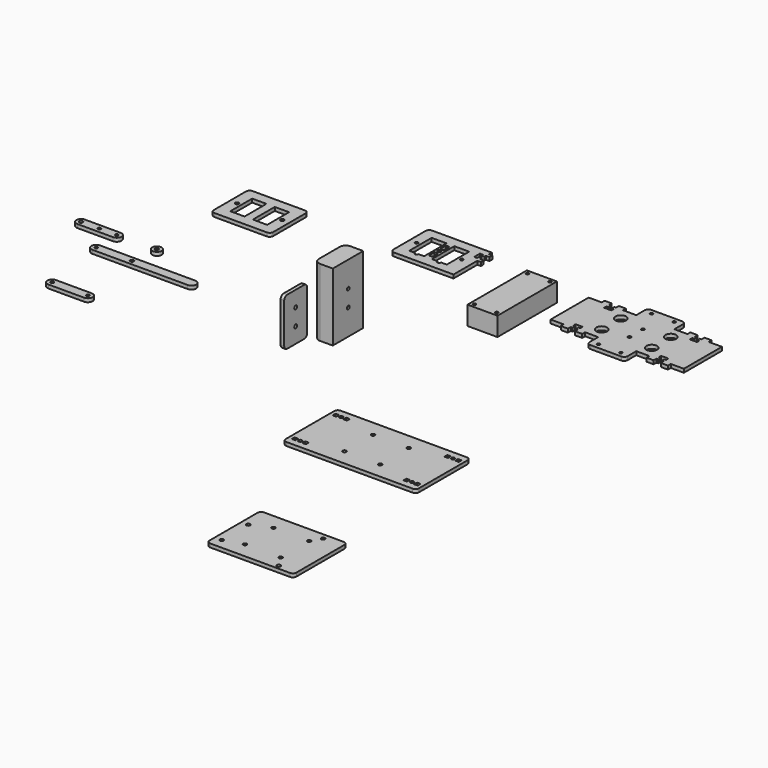
from build123d import *

# Parameters (mm, degrees)
F0_R      = 4
F0_R_2    = 1.5
F1_DEPTH  = 3
F2_R      = 1.5
F2_R_2    = 1.25
F3_DEPTH  = 3
F4_R      = 1.3
F4_R_2    = 1.5
F5_DEPTH  = 3
F6_R      = 1.3
F7_DEPTH  = 3
F8_R      = 1.5
F8_W      = 12
F8_H      = 23
F9_DEPTH  = 3
F11_DEPTH = 57
F12_R     = 1.4
F13_DEPTH = 5
F14_W     = 25.2
F14_H     = 62.4
F14_R     = 1.2
F15_DEPTH = 15.8
F16_R     = 1.3
F16_W     = 3
F16_H     = 6
F16_R_2   = 1.5
F17_DEPTH = 3
F18_R     = 1.2
F18_R_2   = 4.5
F18_R_3   = 1.3
F19_DEPTH = 3
F21_R     = 1.5
F22_DEPTH = 3
F23_W     = 22
F23_H     = 50
F24_DEPTH = 14
F25_W     = 3
F25_H     = 3
F25_R     = 1.5
F26_DEPTH = 3
F27_R     = 1.5875
F27_R_2   = 1.5
F28_DEPTH = 3


with BuildPart() as f1:
    # F0 (on Top) → F1 (new body)
    with BuildSketch(Plane.XY):
        with Locations((29.665118, 8.231424)):
            Circle(F0_R)
        with Locations((29.665118, 8.231424)):
            Circle(F0_R_2, mode=Mode.SUBTRACT)
    extrude(amount=F1_DEPTH)


with BuildPart() as f3:
    # F2 (on Top) → F3 (new body)
    with BuildSketch(Plane.XY):
        with BuildLine():
            Line((-3.451466, 11.501769), (-33.451466, 11.501769))
            ThreePointArc((-33.451466, 11.501769), (-37.451466, 7.501769), (-33.451466, 3.501769))
            Line((-33.451466, 3.501769), (-3.451466, 3.501769))
            ThreePointArc((-3.451466, 3.501769), (0.548534, 7.501769), (-3.451466, 11.501769))
        make_face()
        with Locations((-33.451466, 7.501769)):
            Circle(F2_R, mode=Mode.SUBTRACT)
        with Locations((-18.051466, 7.501769)):
            Circle(F2_R_2, mode=Mode.SUBTRACT)
        with Locations((-3.451466, 7.501769)):
            Circle(F2_R_2, mode=Mode.SUBTRACT)
    extrude(amount=F3_DEPTH)


with BuildPart() as f5:
    # F4 (on Top) → F5 (new body)
    with BuildSketch(Plane.XY):
        with BuildLine():
            Line((77.285945, -10.9573), (-2.714055, -10.9573))
            ThreePointArc((-2.714055, -10.9573), (-6.714055, -14.9573), (-2.714055, -18.9573))
            Line((-2.714055, -18.9573), (77.285945, -18.9573))
            ThreePointArc((77.285945, -18.9573), (81.285945, -14.9573), (77.285945, -10.9573))
        make_face()
        with Locations((-2.714055, -14.9573)):
            Circle(F4_R, mode=Mode.SUBTRACT)
        with Locations((27.285945, -14.9573)):
            Circle(F4_R_2, mode=Mode.SUBTRACT)
    extrude(amount=F5_DEPTH)


with BuildPart() as f7:
    # F6 (on Top) → F7 (new body)
    with BuildSketch(Plane.XY):
        with BuildLine():
            Line((35.4319, -67.481347), (5.4319, -67.481347))
            ThreePointArc((5.4319, -67.481347), (1.4319, -71.481347), (5.4319, -75.481347))
            Line((5.4319, -75.481347), (35.4319, -75.481347))
            ThreePointArc((35.4319, -75.481347), (39.4319, -71.481347), (35.4319, -67.481347))
        make_face()
        with Locations((5.4319, -71.481347)):
            Circle(F6_R, mode=Mode.SUBTRACT)
        with Locations((35.4319, -71.481347)):
            Circle(F6_R, mode=Mode.SUBTRACT)
    extrude(amount=F7_DEPTH)


with BuildPart() as f9:
    # F8 (on Top) → F9 (new body)
    with BuildSketch(Plane.XY):
        with BuildLine():
            Line((71.121437, 111.889585), (27.121437, 111.889585))
            ThreePointArc((27.121437, 111.889585), (25.000117, 111.010906), (24.121437, 108.889585))
            Line((24.121437, 108.889585), (24.121437, 74.889585))
            ThreePointArc((24.121437, 74.889585), (25.000117, 72.768265), (27.121437, 71.889585))
            Line((27.121437, 71.889585), (71.121437, 71.889585))
            ThreePointArc((71.121437, 71.889585), (73.242758, 72.768265), (74.121437, 74.889585))
            Line((74.121437, 74.889585), (74.121437, 108.889585))
            ThreePointArc((74.121437, 108.889585), (73.242758, 111.010906), (71.121437, 111.889585))
        make_face()
        with Locations((30.121437, 91.889585)):
            Circle(F8_R, mode=Mode.SUBTRACT)
        with Locations((39.621437, 91.889585)):
            Rectangle(F8_W, F8_H, mode=Mode.SUBTRACT)
        with Locations((58.621437, 91.889585)):
            Rectangle(F8_W, F8_H, mode=Mode.SUBTRACT)
        with Locations((68.121437, 91.889585)):
            Circle(F8_R, mode=Mode.SUBTRACT)
    extrude(amount=F9_DEPTH)


with BuildPart() as f11:
    # F10 (on Top) → F11 (new body)
    with BuildSketch(Plane.XY):
        with BuildLine():
            Line((201.8592, 9.779038), (191.1592, 9.779038))
            ThreePointArc((191.1592, 9.779038), (187.623666, 8.314572), (186.1592, 4.779038))
            Line((186.1592, 4.779038), (186.1592, -17.220962))
            ThreePointArc((186.1592, -17.220962), (187.623666, -20.756496), (191.1592, -22.220962))
            Line((191.1592, -22.220962), (201.8592, -22.220962))
            Line((201.8592, -22.220962), (201.8592, 9.779038))
        make_face()
    extrude(amount=F11_DEPTH)

    # F12 (on face) → F13 (cut)
    with BuildSketch(Plane.YZ.offset(201.8592)):
        with Locations((-5.903873, 35.5)):
            Circle(F12_R)
        with Locations((-5.903873, 21.5)):
            Circle(F12_R)
    extrude(amount=-F13_DEPTH, mode=Mode.SUBTRACT)

    # F23 (on face) → F24 (cut)
    with BuildSketch(Plane(origin=(186.1592, 0, 0), x_dir=(0, -1, 0), z_dir=(-1, 0, 0))):
        with Locations((6.220962, 28.511743)):
            Rectangle(F23_W, F23_H)
    extrude(amount=-F24_DEPTH, mode=Mode.SUBTRACT)


with BuildPart() as f15:
    # F14 (on Top) → F15 (new body)
    with BuildSketch(Plane.XY):
        with Locations((-65.899901, 94.935169)):
            Rectangle(F14_W, F14_H)
        with Locations((-75.349901, 67.035169)):
            Circle(F14_R, mode=Mode.SUBTRACT)
        with Locations((-56.449901, 67.035169)):
            Circle(F14_R, mode=Mode.SUBTRACT)
        with Locations((-75.349901, 122.835169)):
            Circle(F14_R, mode=Mode.SUBTRACT)
        with Locations((-56.449901, 122.835169)):
            Circle(F14_R, mode=Mode.SUBTRACT)
    extrude(amount=F15_DEPTH)


with BuildPart() as f17:
    # F16 (on Top) → F17 (new body)
    with BuildSketch(Plane.XY):
        with BuildLine():
            Line((204.444543, 141.668812), (154.194543, 141.668812))
            ThreePointArc((154.194543, 141.668812), (152.073222, 140.790133), (151.194543, 138.668812))
            Line((151.194543, 138.668812), (151.194543, 104.668812))
            ThreePointArc((151.194543, 104.668812), (152.073222, 102.547492), (154.194543, 101.668812))
            Line((154.194543, 101.668812), (204.194543, 101.668812))
            Line((204.194543, 101.668812), (204.194543, 126.668812))
            Line((204.194543, 126.668812), (207.194543, 126.668812))
            Line((207.194543, 126.668812), (207.194543, 129.668812))
            Line((207.194543, 129.668812), (204.194543, 129.668812))
            Line((204.194543, 129.668812), (204.194543, 131.187248))
            Line((204.194543, 131.187248), (201.694543, 131.187248))
            Line((201.694543, 131.187248), (201.694543, 129.668812))
            Line((201.694543, 129.668812), (199.194543, 129.668812))
            Line((199.194543, 129.668812), (199.194543, 135.668812))
            Line((199.194543, 135.668812), (201.694543, 135.668812))
            Line((201.694543, 135.668812), (201.694543, 134.150377))
            Line((201.694543, 134.150377), (204.194543, 134.150377))
            Line((204.194543, 134.150377), (204.194543, 135.668812))
            Line((204.194543, 135.668812), (207.194543, 135.668812))
            Line((207.194543, 135.668812), (207.194543, 138.668812))
            Line((207.194543, 138.668812), (204.444543, 138.668812))
            Line((204.444543, 138.668812), (204.444543, 141.668812))
        make_face()
        with Locations((157.194543, 121.668812)):
            Circle(F16_R, mode=Mode.SUBTRACT)
        with Locations((176.194543, 115.668812)):
            Rectangle(F16_W, F16_H, mode=Mode.SUBTRACT)
        with BuildLine():
            Line((160.444543, 109.918812), (160.444543, 133.418812))
            Line((160.444543, 133.418812), (172.944543, 133.418812))
            Line((172.944543, 133.418812), (172.944543, 109.918812))
            Line((172.944543, 109.918812), (168.194543, 109.918812))
            ThreePointArc((168.194543, 109.918812), (166.694543, 108.418812), (165.194543, 109.918812))
            Line((165.194543, 109.918812), (160.444543, 109.918812))
        make_face(mode=Mode.SUBTRACT)
        with Locations((176.194543, 121.668812)):
            Circle(F16_R_2, mode=Mode.SUBTRACT)
        with BuildLine():
            Line((179.444543, 133.418812), (191.944543, 133.418812))
            Line((191.944543, 133.418812), (191.944543, 109.918812))
            Line((191.944543, 109.918812), (187.194543, 109.918812))
            ThreePointArc((187.194543, 109.918812), (185.694543, 108.418812), (184.194543, 109.918812))
            Line((184.194543, 109.918812), (179.444543, 109.918812))
            Line((179.444543, 109.918812), (179.444543, 133.418812))
        make_face(mode=Mode.SUBTRACT)
        with Locations((195.194543, 121.668812)):
            Circle(F16_R, mode=Mode.SUBTRACT)
        with Locations((176.194543, 127.668812)):
            Rectangle(F16_W, F16_H, mode=Mode.SUBTRACT)
    extrude(amount=F17_DEPTH)


with BuildPart() as f19:
    # F18 (on Top) → F19 (new body)
    with BuildSketch(Plane.XY):
        with BuildLine():
            Line((293.925559, 131.497033), (293.925559, 111.497033))
            Line((293.925559, 111.497033), (293.925559, 91.497033))
            Line((293.925559, 91.497033), (304.925559, 91.497033))
            Line((304.925559, 91.497033), (304.925559, 88.497033))
            Line((304.925559, 88.497033), (310.925559, 88.497033))
            Line((310.925559, 88.497033), (310.925559, 91.497033))
            Line((310.925559, 91.497033), (312.443994, 91.497033))
            Line((312.443994, 91.497033), (312.443994, 93.997033))
            Line((312.443994, 93.997033), (310.925559, 93.997033))
            Line((310.925559, 93.997033), (310.925559, 96.497033))
            Line((310.925559, 96.497033), (316.925559, 96.497033))
            Line((316.925559, 96.497033), (316.925559, 93.997033))
            Line((316.925559, 93.997033), (315.407124, 93.997033))
            Line((315.407124, 93.997033), (315.407124, 91.497033))
            Line((315.407124, 91.497033), (316.925559, 91.497033))
            Line((316.925559, 91.497033), (316.925559, 88.497033))
            Line((316.925559, 88.497033), (322.925559, 88.497033))
            Line((322.925559, 88.497033), (322.925559, 91.500696))
            Line((322.925559, 91.500696), (333.925559, 91.500696))
            Line((333.925559, 91.500696), (333.925559, 82.500696))
            ThreePointArc((333.925559, 82.500696), (334.804239, 80.379376), (336.925559, 79.500696))
            Line((336.925559, 79.500696), (349.925559, 79.500696))
            Line((349.925559, 79.500696), (362.925559, 79.500696))
            ThreePointArc((362.925559, 79.500696), (365.046879, 80.379376), (365.925559, 82.500696))
            Line((365.925559, 82.500696), (365.925559, 91.500696))
            Line((365.925559, 91.500696), (376.925559, 91.500696))
            Line((376.925559, 91.500696), (376.925559, 88.497033))
            Line((376.925559, 88.497033), (382.925559, 88.497033))
            Line((382.925559, 88.497033), (382.925559, 91.497033))
            Line((382.925559, 91.497033), (384.443994, 91.497033))
            Line((384.443994, 91.497033), (384.443994, 93.997033))
            Line((384.443994, 93.997033), (382.925559, 93.997033))
            Line((382.925559, 93.997033), (382.925559, 96.497033))
            Line((382.925559, 96.497033), (388.925559, 96.497033))
            Line((388.925559, 96.497033), (388.925559, 93.997033))
            Line((388.925559, 93.997033), (387.407124, 93.997033))
            Line((387.407124, 93.997033), (387.407124, 91.497033))
            Line((387.407124, 91.497033), (388.925559, 91.497033))
            Line((388.925559, 91.497033), (388.925559, 88.497033))
            Line((388.925559, 88.497033), (394.925559, 88.497033))
            Line((394.925559, 88.497033), (394.925559, 91.497033))
            Line((394.925559, 91.497033), (405.925559, 91.497033))
            Line((405.925559, 91.497033), (405.925559, 111.497033))
            Line((405.925559, 111.497033), (405.925559, 131.497033))
            Line((405.925559, 131.497033), (394.925559, 131.497033))
            Line((394.925559, 131.497033), (394.925559, 134.497033))
            Line((394.925559, 134.497033), (388.925559, 134.497033))
            Line((388.925559, 134.497033), (388.925559, 131.497033))
            Line((388.925559, 131.497033), (387.407124, 131.497033))
            Line((387.407124, 131.497033), (387.407124, 128.997033))
            Line((387.407124, 128.997033), (388.925559, 128.997033))
            Line((388.925559, 128.997033), (388.925559, 126.497033))
            Line((388.925559, 126.497033), (382.925559, 126.497033))
            Line((382.925559, 126.497033), (382.925559, 128.997033))
            Line((382.925559, 128.997033), (384.443994, 128.997033))
            Line((384.443994, 128.997033), (384.443994, 131.497033))
            Line((384.443994, 131.497033), (382.925559, 131.497033))
            Line((382.925559, 131.497033), (382.925559, 134.497033))
            Line((382.925559, 134.497033), (376.925559, 134.497033))
            Line((376.925559, 134.497033), (376.925559, 131.493369))
            Line((376.925559, 131.493369), (365.925559, 131.493369))
            Line((365.925559, 131.493369), (365.925559, 140.493369))
            ThreePointArc((365.925559, 140.493369), (365.046879, 142.61469), (362.925559, 143.493369))
            Line((362.925559, 143.493369), (349.925559, 143.493369))
            Line((349.925559, 143.493369), (336.925559, 143.493369))
            ThreePointArc((336.925559, 143.493369), (334.804239, 142.61469), (333.925559, 140.493369))
            Line((333.925559, 140.493369), (333.925559, 131.493369))
            Line((333.925559, 131.493369), (322.925559, 131.493369))
            Line((322.925559, 131.493369), (322.925559, 134.497033))
            Line((322.925559, 134.497033), (316.925559, 134.497033))
            Line((316.925559, 134.497033), (316.925559, 131.497033))
            Line((316.925559, 131.497033), (315.407124, 131.497033))
            Line((315.407124, 131.497033), (315.407124, 128.997033))
            Line((315.407124, 128.997033), (316.925559, 128.997033))
            Line((316.925559, 128.997033), (316.925559, 126.497033))
            Line((316.925559, 126.497033), (310.925559, 126.497033))
            Line((310.925559, 126.497033), (310.925559, 128.997033))
            Line((310.925559, 128.997033), (312.443994, 128.997033))
            Line((312.443994, 128.997033), (312.443994, 131.497033))
            Line((312.443994, 131.497033), (310.925559, 131.497033))
            Line((310.925559, 131.497033), (310.925559, 134.497033))
            Line((310.925559, 134.497033), (304.925559, 134.497033))
            Line((304.925559, 134.497033), (304.925559, 131.497033))
            Line((304.925559, 131.497033), (293.925559, 131.497033))
        make_face()
        with Locations((340.475559, 83.597033)):
            Circle(F18_R, mode=Mode.SUBTRACT)
        with Locations((328.925559, 101.497033)):
            Circle(F18_R_2, mode=Mode.SUBTRACT)
        with Locations((349.925559, 104.497033)):
            Circle(F18_R_3, mode=Mode.SUBTRACT)
        with Locations((359.375559, 83.597033)):
            Circle(F18_R, mode=Mode.SUBTRACT)
        with Locations((370.925559, 101.497033)):
            Circle(F18_R_2, mode=Mode.SUBTRACT)
        with Locations((349.925559, 118.497033)):
            Circle(F18_R_3, mode=Mode.SUBTRACT)
        with Locations((328.925559, 121.497033)):
            Circle(F18_R_2, mode=Mode.SUBTRACT)
        with Locations((340.475559, 139.397033)):
            Circle(F18_R, mode=Mode.SUBTRACT)
        with Locations((370.925559, 121.497033)):
            Circle(F18_R_2, mode=Mode.SUBTRACT)
        with Locations((359.375559, 139.397033)):
            Circle(F18_R, mode=Mode.SUBTRACT)
    extrude(amount=F19_DEPTH)


with BuildPart() as f15_1:
    # F20: moved
    add(f15.part.moved(Location((332, -9, 0))))


with BuildPart() as f22:
    # F21 (on face) → F22 (new body)
    with BuildSketch(Plane.YZ.offset(201.8592)):
        with BuildLine():
            Line((-55.968975, 59.630944), (-73.968975, 59.630944))
            ThreePointArc((-73.968975, 59.630944), (-76.090296, 58.752265), (-76.968975, 56.630944))
            Line((-76.968975, 56.630944), (-76.968975, 22.630944))
            ThreePointArc((-76.968975, 22.630944), (-76.090296, 20.509624), (-73.968975, 19.630944))
            Line((-73.968975, 19.630944), (-55.968975, 19.630944))
            ThreePointArc((-55.968975, 19.630944), (-53.847655, 20.509624), (-52.968975, 22.630944))
            Line((-52.968975, 22.630944), (-52.968975, 56.630944))
            ThreePointArc((-52.968975, 56.630944), (-53.847655, 58.752265), (-55.968975, 59.630944))
        make_face()
        with Locations((-64.968975, 32.630944)):
            Circle(F21_R, mode=Mode.SUBTRACT)
        with Locations((-64.968975, 46.630944)):
            Circle(F21_R, mode=Mode.SUBTRACT)
    extrude(amount=F22_DEPTH)


with BuildPart() as f26:
    # F25 (on Top) → F26 (new body)
    with BuildSketch(Plane.XY):
        with BuildLine():
            Line((320.310041, -95.721391), (267.310041, -95.721391))
            ThreePointArc((267.310041, -95.721391), (265.188721, -96.60007), (264.310041, -98.721391))
            Line((264.310041, -98.721391), (264.310041, -124.221391))
            Line((264.310041, -124.221391), (264.310041, -149.721391))
            ThreePointArc((264.310041, -149.721391), (265.188721, -151.842711), (267.310041, -152.721391))
            Line((267.310041, -152.721391), (320.310041, -152.721391))
            Line((320.310041, -152.721391), (373.310041, -152.721391))
            ThreePointArc((373.310041, -152.721391), (375.431362, -151.842711), (376.310041, -149.721391))
            Line((376.310041, -149.721391), (376.310041, -124.221391))
            Line((376.310041, -124.221391), (376.310041, -98.721391))
            ThreePointArc((376.310041, -98.721391), (375.431362, -96.60007), (373.310041, -95.721391))
            Line((373.310041, -95.721391), (320.310041, -95.721391))
        make_face()
        with Locations((268.810041, -145.721391)):
            Rectangle(F25_W, F25_H, mode=Mode.SUBTRACT)
        with Locations((273.310041, -145.721391)):
            Circle(F25_R, mode=Mode.SUBTRACT)
        with Locations((277.810041, -145.721391)):
            Rectangle(F25_W, F25_H, mode=Mode.SUBTRACT)
        with Locations((305.310041, -139.221391)):
            Circle(F25_R, mode=Mode.SUBTRACT)
        with Locations((335.310041, -139.221391)):
            Circle(F25_R, mode=Mode.SUBTRACT)
        with Locations((362.810041, -145.721391)):
            Rectangle(F25_W, F25_H, mode=Mode.SUBTRACT)
        with Locations((367.310041, -145.721391)):
            Circle(F25_R, mode=Mode.SUBTRACT)
        with Locations((371.810041, -145.721391)):
            Rectangle(F25_W, F25_H, mode=Mode.SUBTRACT)
        with Locations((268.810041, -102.721391)):
            Rectangle(F25_W, F25_H, mode=Mode.SUBTRACT)
        with Locations((273.310041, -102.721391)):
            Circle(F25_R, mode=Mode.SUBTRACT)
        with Locations((277.810041, -102.721391)):
            Rectangle(F25_W, F25_H, mode=Mode.SUBTRACT)
        with Locations((305.310041, -109.221391)):
            Circle(F25_R, mode=Mode.SUBTRACT)
        with Locations((335.310041, -109.221391)):
            Circle(F25_R, mode=Mode.SUBTRACT)
        with Locations((362.810041, -102.721391)):
            Rectangle(F25_W, F25_H, mode=Mode.SUBTRACT)
        with Locations((367.310041, -102.721391)):
            Circle(F25_R, mode=Mode.SUBTRACT)
        with Locations((371.810041, -102.721391)):
            Rectangle(F25_W, F25_H, mode=Mode.SUBTRACT)
    extrude(amount=F26_DEPTH)


with BuildPart() as f28:
    # F27 (on Top) → F28 (new body)
    with BuildSketch(Plane.XY):
        with BuildLine():
            ThreePointArc((385.332636, -296.549443), (387.453957, -295.670763), (388.332636, -293.549443))
            Line((388.332636, -293.549443), (388.332636, -243.049443))
            ThreePointArc((388.332636, -243.049443), (387.453957, -240.928122), (385.332636, -240.049443))
            Line((385.332636, -240.049443), (318.332636, -240.049443))
            ThreePointArc((318.332636, -240.049443), (316.211316, -240.928122), (315.332636, -243.049443))
            Line((315.332636, -243.049443), (315.332636, -293.549443))
            ThreePointArc((315.332636, -293.549443), (316.211316, -295.670763), (318.332636, -296.549443))
            Line((318.332636, -296.549443), (385.332636, -296.549443))
        make_face()
        with Locations((321.114968, -288.050763)):
            Circle(F27_R, mode=Mode.SUBTRACT)
        with Locations((336.832636, -283.299443)):
            Circle(F27_R_2, mode=Mode.SUBTRACT)
        with Locations((366.832636, -283.299443)):
            Circle(F27_R_2, mode=Mode.SUBTRACT)
        with Locations((373.184968, -293.130763)):
            Circle(F27_R, mode=Mode.SUBTRACT)
        with Locations((321.114968, -260.110763)):
            Circle(F27_R, mode=Mode.SUBTRACT)
        with Locations((336.832636, -253.299443)):
            Circle(F27_R_2, mode=Mode.SUBTRACT)
        with Locations((366.832636, -253.299443)):
            Circle(F27_R_2, mode=Mode.SUBTRACT)
        with Locations((371.914968, -244.870763)):
            Circle(F27_R, mode=Mode.SUBTRACT)
    extrude(amount=F28_DEPTH)


solid = Compound([f1.part, f3.part, f5.part, f7.part, f9.part, f11.part, f17.part, f19.part, f15_1.part, f22.part, f26.part, f28.part])
